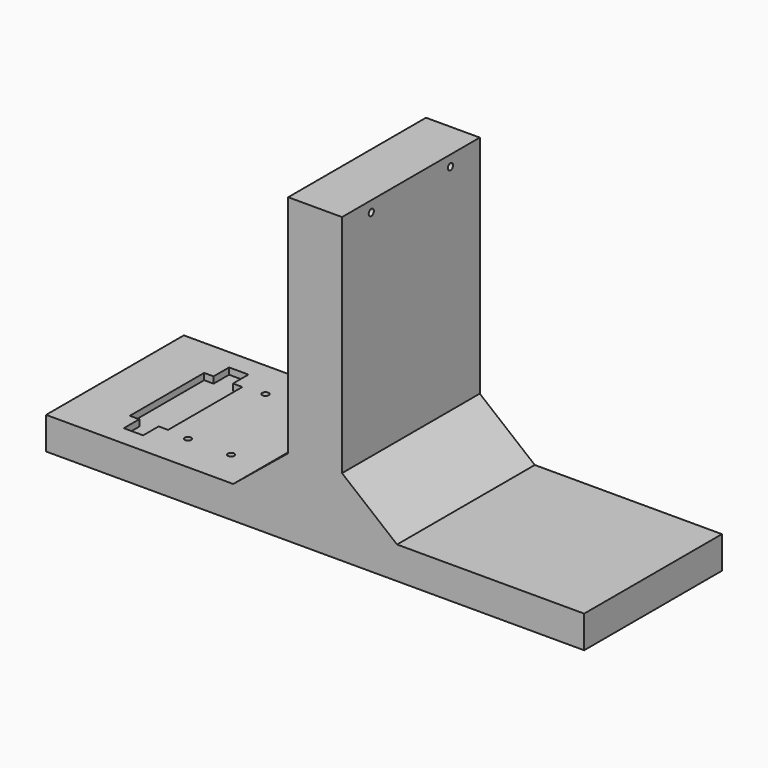
from build123d import *

# Parameters (mm, degrees)
PAD_DEPTH       = 80
SKETCH001_R     = 1.5
HOLE_DEPTH      = 25
HOLE_TIPS_R     = 1.5
SKETCH002_R     = 1.5
HOLE001_DEPTH   = 25
SKETCH003_W     = 17.76
SKETCH003_H     = 43.16
POCKET_DEPTH    = 3
SKETCH004_W     = 9
SKETCH004_H     = 9
POCKET001_DEPTH = 3


with BuildPart() as part:
    # Sketch → Pad (new body)
    with BuildSketch(Plane.XZ):
        Polygon((-125, 0), (125, 0), (125, 15), (38.06, 15), (12.5, 35.873102), (12.5, 140.603102), (-12.5, 140.603102), (-12.5, 35.873102), (-38.06, 15), (-125, 15), align=None)
    extrude(amount=PAD_DEPTH)

    # Sketch001 (on Face5 of Pad) → Hole (cut)
    with BuildSketch(Plane(origin=(12.5, 0, 0), x_dir=(0, 0, 1), z_dir=(1, 0, 0))):
        with Locations((135.603102, 63)):
            Circle(SKETCH001_R)
        with Locations((135.603102, 17)):
            Circle(SKETCH001_R)
    extrude(amount=-HOLE_DEPTH, mode=Mode.SUBTRACT)

    # Hole tips → Hole tip 1 section 0
    with BuildSketch(Plane(origin=(-12.5, 0, 0), x_dir=(0, 0, 1), z_dir=(1, 0, 0)), mode=Mode.PRIVATE) as hole_tip_1_s0:
        with Locations((135.603102, 63)):
            Circle(HOLE_TIPS_R)
    loft([hole_tip_1_s0.sketch, Vertex(-13.401291, -63, 135.603102)], mode=Mode.SUBTRACT)

    # Hole tips → Hole tip 2 section 0
    with BuildSketch(Plane(origin=(-12.5, 0, 0), x_dir=(0, 0, 1), z_dir=(1, 0, 0)), mode=Mode.PRIVATE) as hole_tip_2_s0:
        with Locations((135.603102, 17)):
            Circle(HOLE_TIPS_R)
    loft([hole_tip_2_s0.sketch, Vertex(-13.401291, -17, 135.603102)], mode=Mode.SUBTRACT)

    # Sketch002 (on Face7 of Hole) → Hole001 (cut)
    with BuildSketch(Plane(origin=(0, 0, 15), x_dir=(-1, 0, 0), z_dir=(0, 0, 1))):
        with Locations((53.06, 62.5)):
            Circle(SKETCH002_R)
        with Locations((73.06, 62.5)):
            Circle(SKETCH002_R)
        with Locations((53.06, 17.5)):
            Circle(SKETCH002_R)
        with Locations((73.06, 17.5)):
            Circle(SKETCH002_R)
    extrude(amount=-HOLE001_DEPTH, mode=Mode.SUBTRACT)

    # Sketch003 (on Face10 of Hole001) → Pocket (cut)
    with BuildSketch(Plane(origin=(0, 0, 15), x_dir=(-1, 0, 0), z_dir=(0, 0, 1))):
        with Locations((91.94, 40)):
            Rectangle(SKETCH003_W, SKETCH003_H)
    extrude(amount=-POCKET_DEPTH, mode=Mode.SUBTRACT)

    # Sketch004 (on Face10 of Pocket) → Pocket001 (cut)
    with BuildSketch(Plane(origin=(0, 0, 15), x_dir=(-1, 0, 0), z_dir=(0, 0, 1))):
        with Locations((91.94, 66.08)):
            Rectangle(SKETCH004_W, SKETCH004_H)
        with Locations((91.94, 13.92)):
            Rectangle(SKETCH004_W, SKETCH004_H)
    extrude(amount=-POCKET001_DEPTH, mode=Mode.SUBTRACT)


solid = part.part
